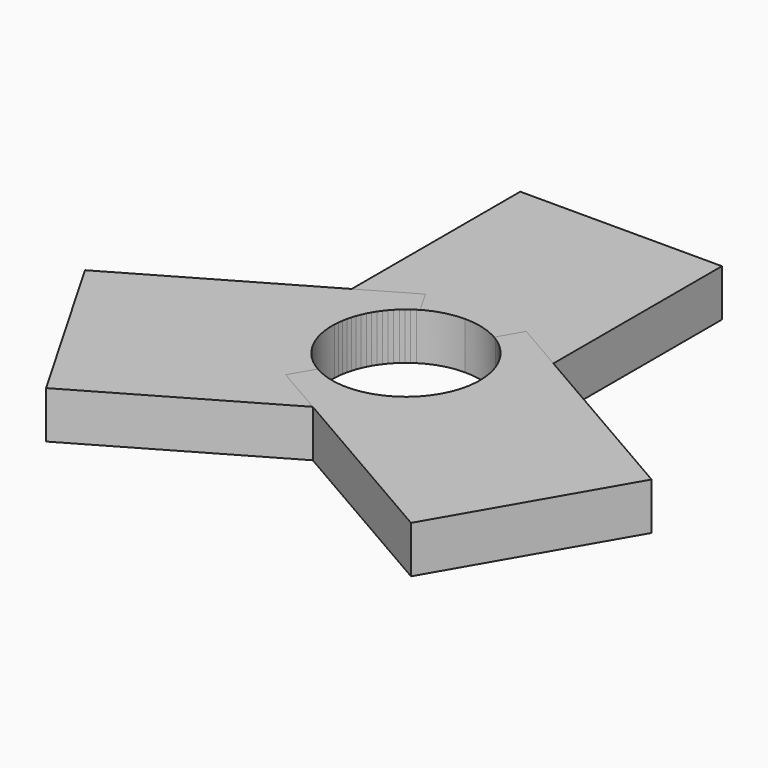
from build123d import *

# Parameters (mm, degrees)
F1_DEPTH = 7
F3_ANGLE = 120
F5_ANGLE = 240


with BuildPart() as f1:
    # F0 (on Top) → F1 (new body)
    with BuildSketch(Plane.XY):
        with BuildLine():
            ThreePointArc((-11, 0), (-7.778175, 7.778175), (0, 11))
            Line((0, 11), (0, 40))
            Line((0, 40), (-15, 40))
            Line((-15, 40), (-15, 0))
            Line((-15, 0), (-11, 0))
        make_face()
        with BuildLine():
            ThreePointArc((0, 11), (7.778175, 7.778175), (11, 0))
            Line((11, 0), (15, 0))
            Line((15, 0), (15, 40))
            Line((15, 40), (0, 40))
            Line((0, 40), (0, 11))
        make_face()
    extrude(amount=F1_DEPTH)


with BuildPart() as f3_1:
    # F3: copy of F1
    add(f1.part.rotate(Axis((0, 0, 25.992945), (0, 0, 1)), F3_ANGLE))


with BuildPart() as f5_1:
    # F5: copy of F1
    add(f1.part.rotate(Axis((0, 0, 15.922379), (0, 0, 1)), F5_ANGLE))


solid = Compound([f1.part, f3_1.part, f5_1.part])
